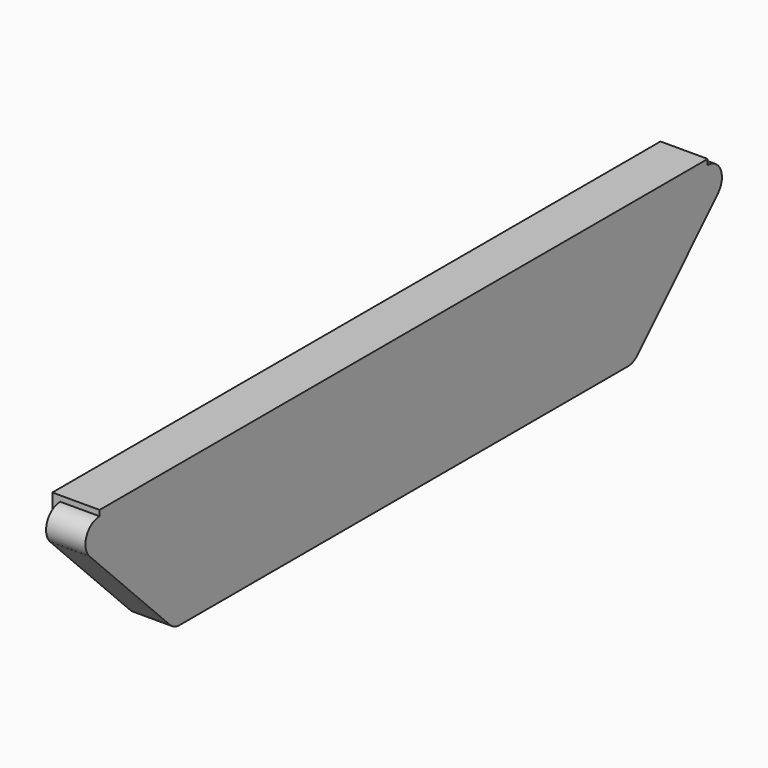
from build123d import *

# Parameters (mm, degrees)
F1_DEPTH = 3.048
F2_DEPTH = 2.54


with BuildPart() as f1:
    # F0 (on Right) → F1 (new body)
    with BuildSketch(Plane.YZ):
        Polygon((-16.938034, -3.753511), (1.121366, -3.753511), (19.180766, -3.753511), (25.638307, 2.774801), (25.638307, 3.923013), (25.638307, 4.276337), (1.121366, 4.276337), (-23.415034, 4.276337), (-23.415034, 3.915724), (-23.415034, 2.774801), align=None)
    extrude(amount=-F1_DEPTH)

    # F0 (on Right) → F2 (join)
    with BuildSketch(Plane.YZ):
        with BuildLine():
            Line((25.638307, 3.923013), (25.638307, 2.774801))
            Line((25.638307, 2.774801), (26.454628, 1.96733))
            ThreePointArc((26.454628, 1.96733), (26.697915, 3.217092), (25.638307, 3.923013))
        make_face()
        Polygon((25.638307, 2.774801), (19.180766, -3.753511), (19.991486, -4.555442), (26.458998, 1.963008), (26.454628, 1.96733), align=None)
        with BuildLine():
            Line((19.180766, -3.753511), (1.121366, -3.753511))
            Line((1.121366, -3.753511), (-16.938034, -3.753511))
            Line((-16.938034, -3.753511), (-17.746318, -4.555442))
            ThreePointArc((-17.746318, -4.555442), (-17.375833, -4.804582), (-16.938034, -4.892114))
            Line((-16.938034, -4.892114), (19.180766, -4.893845))
            ThreePointArc((19.180766, -4.893845), (19.620022, -4.805849), (19.991486, -4.555442))
            Line((19.991486, -4.555442), (19.180766, -3.753511))
        make_face()
        Polygon((-17.746318, -4.555442), (-16.938034, -3.753511), (-23.415034, 2.774801), (-24.224964, 1.971237), (-24.226773, 1.969442), align=None)
        with BuildLine():
            Line((-24.224964, 1.971237), (-23.415034, 2.774801))
            Line((-23.415034, 2.774801), (-23.415034, 3.915724))
            ThreePointArc((-23.415034, 3.915724), (-24.468245, 3.213492), (-24.224964, 1.971237))
        make_face()
    extrude(amount=-F2_DEPTH)


solid = f1.part
